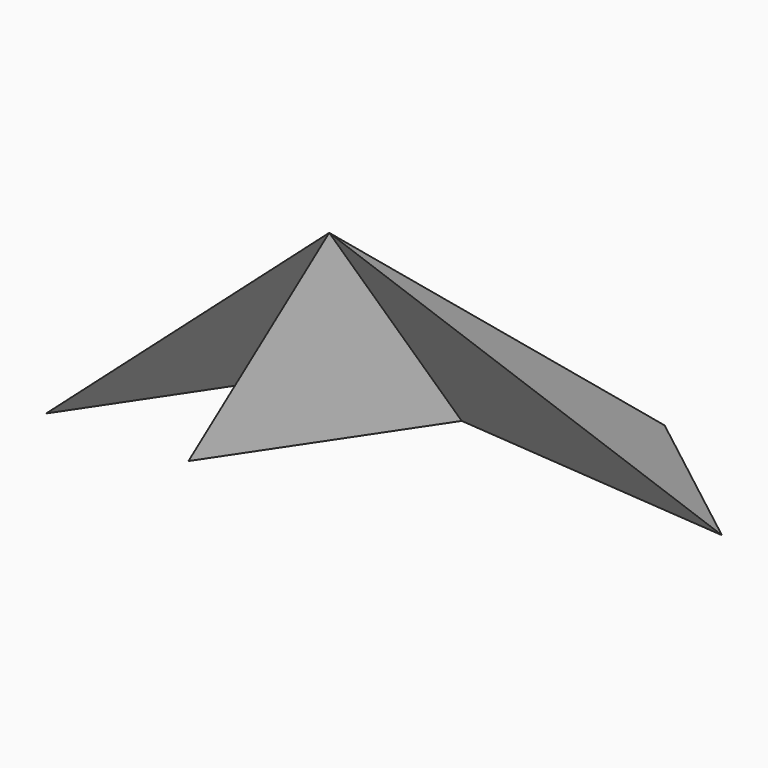
from build123d import *


with BuildPart() as f3:
    # F0 (on Top) → F3 section 0
    with BuildSketch(Plane.XY, mode=Mode.PRIVATE) as f3_s0:
        Polygon((43.352313, 45.857951), (-38.480539, 45.857951), (-49.638683, -22.40365), (-16.927853, 26.66259), (-16.927853, -20.82067), (12.707091, 23.631742), (79.385713, 17.906811), align=None)
    loft([Vertex(0, 0, 45), f3_s0.sketch])


solid = f3.part
